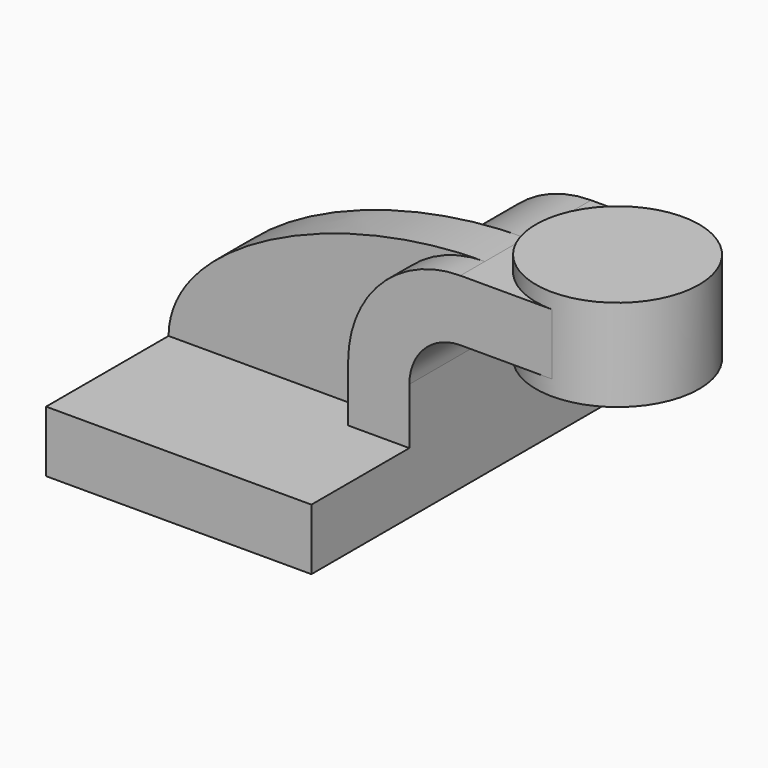
from build123d import *

# Parameters (mm, degrees)
F1_DEPTH = 63.5
F0_W     = 25.4
F0_H     = 19.05
F2_DEPTH = 25.4
F3_DEPTH = 15.875


with BuildPart() as f1:
    # F0 (on Front) → F1 (new body, symmetric)
    with BuildSketch(Plane.XZ):
        Polygon((41.275, -9.525), (41.275, 9.525), (22.225, 9.525), (-41.275, 9.525), (-41.275, -9.525), align=None)
    extrude(amount=F1_DEPTH, both=True)

    # F0 (on Front) → F2 (join, symmetric)
    with BuildSketch(Plane.XZ):
        with BuildLine():
            Line((22.225, 9.525), (41.275, 9.525))
            Line((41.275, 9.525), (41.275, 27.0002))
            ThreePointArc((41.275, 27.0002), (45.9246798487, 38.2255201513), (57.15, 42.8752))
            Line((57.15, 42.8752), (60.325, 42.8752))
            Line((60.325, 42.8752), (60.325, 61.9252))
            Line((60.325, 61.9252), (57.15, 61.9252))
            ThreePointArc((57.15, 61.9252), (32.4542956671, 51.6959043329), (22.225, 27.0002))
            Line((22.225, 27.0002), (22.225, 9.525))
        make_face()
        with Locations((73.025, 52.4002)):
            Rectangle(F0_W, F0_H)
    extrude(amount=F2_DEPTH, both=True)

    # F0 (on Front) → F3 (join)
    with BuildSketch(Plane.XZ):
        with BuildLine():
            Line((-41.275, 9.525), (22.225, 9.525))
            Line((22.225, 9.525), (22.225, 27.0002))
            ThreePointArc((22.225, 27.0002), (32.4542956671, 51.6959043329), (57.15, 61.9252))
            add(Edge.make_bspline(
                [(-41.275, 9.525), (-41.0052500665, 37.4122597277), (10.2264313027, 61.962634325), (57.15, 61.9252)],
                knots=[0, 0, 0, 0, 111.5045361635, 111.5045361635, 111.5045361635, 111.5045361635], degree=3))
        make_face()
    extrude(amount=F3_DEPTH)

    # F0 (on Front) → F4 (revolve)
    with BuildSketch(Plane.XZ):
        Polygon((85.725, 61.9252), (85.725, 42.8752), (85.725, 38.1), (111.125, 38.1), (111.125, 66.675), (85.725, 66.675), align=None)
    revolve(axis=Axis((85.725, 0, 52.3875), (0, 0, 1)))


solid = f1.part
